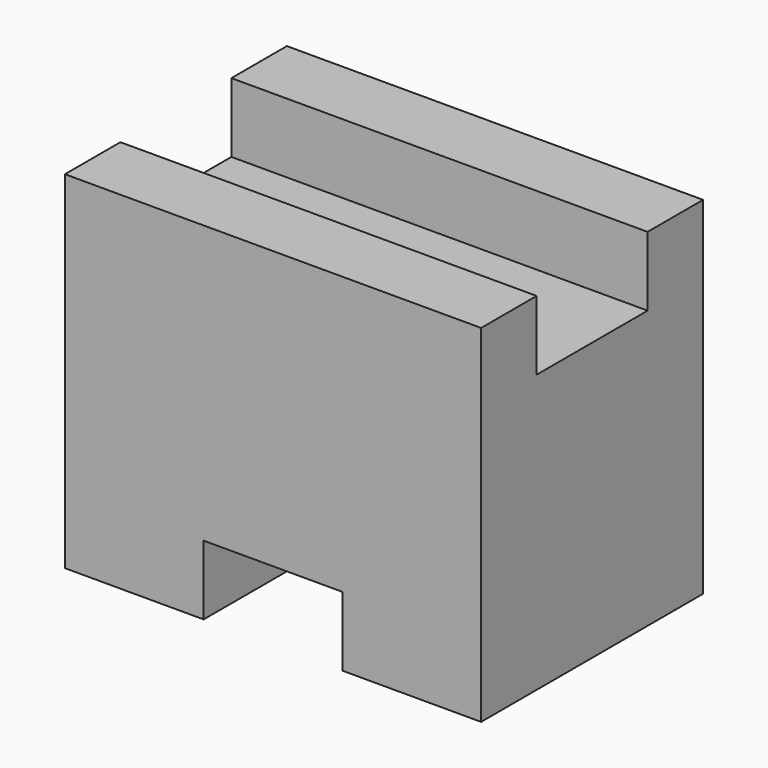
from build123d import *

# Parameters (mm, degrees)
F0_W     = 38.1
F0_H     = 31.75
F1_DEPTH = 25.4
F2_W     = 38.1
F2_H     = 12.7
F3_DEPTH = 6.35
F4_W     = 12.7
F4_H     = 25.4
F5_DEPTH = 6.35


with BuildPart() as f1:
    # F0 (on Front) → F1 (new body)
    with BuildSketch(Plane.XZ):
        with Locations((-28.898983, 15.875)):
            Rectangle(F0_W, F0_H)
    extrude(amount=F1_DEPTH)

    # F2 (on face) → F3 (cut)
    with BuildSketch(Plane.XY.offset(31.75)):
        with Locations((-28.898983, -12.7)):
            Rectangle(F2_W, F2_H)
    extrude(amount=-F3_DEPTH, mode=Mode.SUBTRACT)

    # F4 (on face) → F5 (cut)
    with BuildSketch(Plane(origin=(0, 0, 0), x_dir=(1, 0, 0), z_dir=(0, 0, -1))):
        with Locations((-28.898983, 12.7)):
            Rectangle(F4_W, F4_H)
    extrude(amount=-F5_DEPTH, mode=Mode.SUBTRACT)


solid = f1.part
